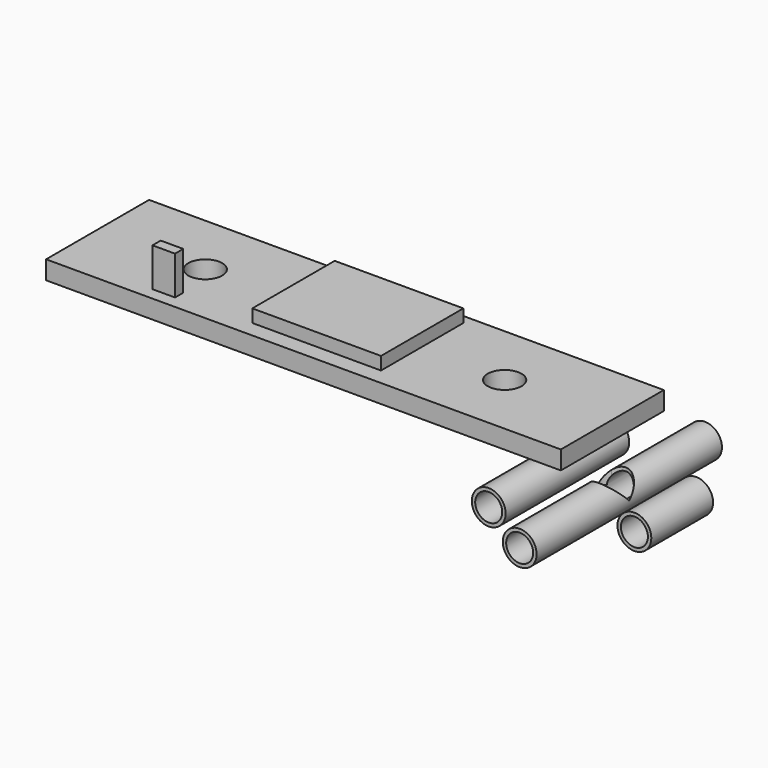
from build123d import *

# Parameters (mm, degrees)
F0_R      = 16.7005
F0_R_2    = 13.3223
F1_DEPTH  = 76.2
F2_DEPTH  = 114.3
F3_DEPTH  = 38.1
F4_W      = 508
F4_H      = 18.25625
F5_DEPTH  = 63.5
F7_DEPTH  = 25.4
F8_R      = 16.7005
F9_DEPTH  = 25.4
F10_W     = 127
F10_H     = 101.6
F11_DEPTH = 12.7
F10_W_2   = 22.225
F10_H_2   = 10.16
F12_DEPTH = 38.1


with BuildPart() as f1:
    # F0 (on Front) → F1 (new body, symmetric)
    with BuildSketch(Plane.XZ):
        with Locations((-61.0336442519, 0)):
            Circle(F0_R)
        with Locations((-61.0336442519, 0)):
            Circle(F0_R_2, mode=Mode.SUBTRACT)
    extrude(amount=F1_DEPTH, both=True)


with BuildPart() as f2:
    # F0 (on Front) → F2 (new body, symmetric)
    with BuildSketch(Plane.XZ):
        Circle(F0_R)
        Circle(F0_R_2, mode=Mode.SUBTRACT)
    extrude(amount=F2_DEPTH, both=True)

    # F6 (on Top) → F7 (cut)
    with BuildSketch(Plane.XY):
        with BuildLine():
            ThreePointArc((10.8451233395, 12.7), (0, 16.7005), (-10.8451233395, 12.7))
            Line((-10.8451233395, 12.7), (10.8451233395, 12.7))
        make_face()
        with BuildLine():
            ThreePointArc((-16.7005, 0), (-15.166174247, -6.992414387), (-10.8451233395, -12.7))
            Line((-10.8451233395, -12.7), (10.8451233395, -12.7))
            ThreePointArc((10.8451233395, -12.7), (15.166174247, -6.992414387), (16.7005, 0))
            ThreePointArc((16.7005, 0), (15.166174247, 6.992414387), (10.8451233395, 12.7))
            Line((10.8451233395, 12.7), (-10.8451233395, 12.7))
            ThreePointArc((-10.8451233395, 12.7), (-15.166174247, 6.992414387), (-16.7005, 0))
        make_face()
        with BuildLine():
            Line((10.8451233395, -12.7), (-10.8451233395, -12.7))
            ThreePointArc((-10.8451233395, -12.7), (0, -16.7005), (10.8451233395, -12.7))
        make_face()
    extrude(amount=F7_DEPTH, mode=Mode.SUBTRACT)


with BuildPart() as f3:
    # F0 (on Front) → F3 (new body, symmetric)
    with BuildSketch(Plane.XZ):
        with Locations((52.2359970283, 0)):
            Circle(F0_R)
        with Locations((52.2359970283, 0)):
            Circle(F0_R_2, mode=Mode.SUBTRACT)
    extrude(amount=F3_DEPTH, both=True)


with BuildPart() as f5:
    # F4 (on Front) → F5 (new body, symmetric)
    with BuildSketch(Plane.XZ):
        with Locations((-254, 55.7688130877)):
            Rectangle(F4_W, F4_H)
    extrude(amount=F5_DEPTH, both=True)

    # F8 (on face) → F9 (cut)
    with BuildSketch(Plane.XY.offset(64.8969380877)):
        with BuildLine():
            ThreePointArc((-89.5858, 0), (-106.2863, 16.7005), (-122.9868, 0))
            ThreePointArc((-122.9868, 0), (-106.2863, -16.7005), (-89.5858, 0))
        make_face()
        with Locations((-401.7137, 0)):
            Circle(F8_R)
    extrude(amount=-F9_DEPTH, mode=Mode.SUBTRACT)

    # F10 (on face) → F11 (join)
    with BuildSketch(Plane.XY.offset(64.8969380877)):
        with Locations((-254, 3.5663377494)):
            Rectangle(F10_W, F10_H)
    extrude(amount=F11_DEPTH)

    # F10 (on face) → F12 (join)
    with BuildSketch(Plane.XY.offset(64.8969380877)):
        with Locations((-401.7137, -46.1455690992)):
            Rectangle(F10_W_2, F10_H_2)
    extrude(amount=F12_DEPTH)


solid = Compound([f1.part, f2.part, f3.part, f5.part])
